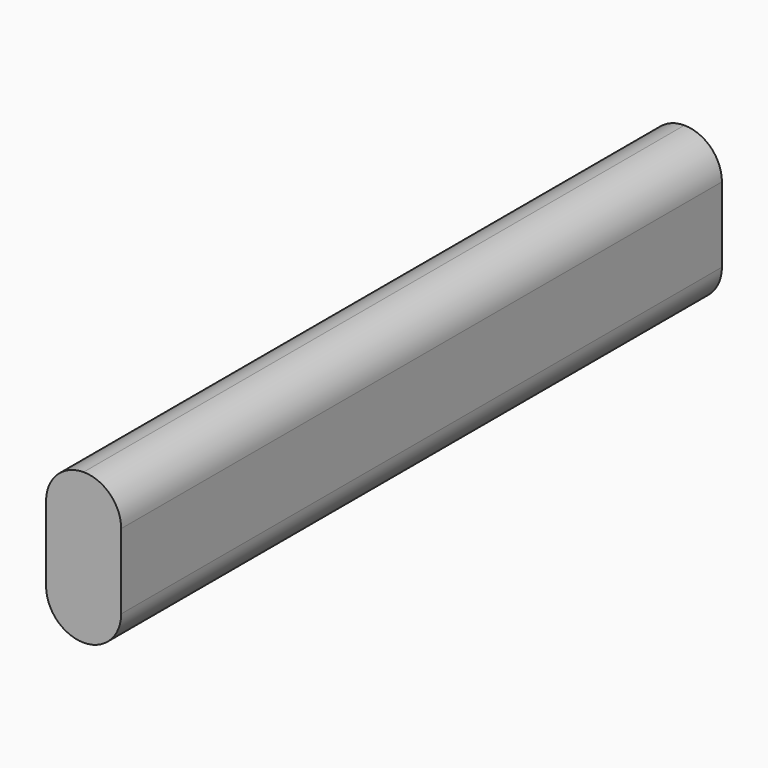
from build123d import *

# Parameters (mm, degrees)
F1_DEPTH = 150


with BuildPart() as f1:
    # F0 (on Front) → F1 (new body, symmetric)
    with BuildSketch(Plane.XZ):
        with BuildLine():
            ThreePointArc((0, 30), (-10.606602, 25.606602), (-15, 15))
            Line((-15, 15), (-15, -15))
            ThreePointArc((-15, -15), (-10.606602, -25.606602), (0, -30))
            ThreePointArc((0, -30), (10.606602, -25.606602), (15, -15))
            Line((15, -15), (15, 15))
            ThreePointArc((15, 15), (10.606602, 25.606602), (0, 30))
        make_face()
    extrude(amount=F1_DEPTH, both=True)


solid = f1.part
